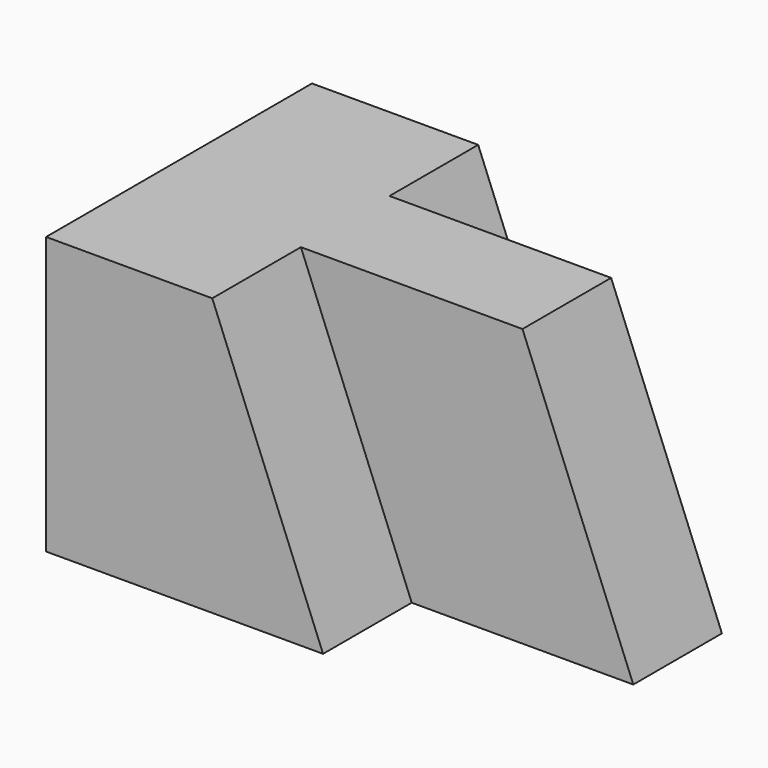
from build123d import *

# Parameters (mm, degrees)
F0_W     = 31.75
F0_H     = 31.75
F1_DEPTH = 38.1
F3_DEPTH = 12.7
F5_DEPTH = 12.7
F6_DEPTH = 25.4
F8_DEPTH = 25.401


with BuildPart() as f1:
    # F0 (on Front) → F1 (new body)
    with BuildSketch(Plane.XZ):
        with Locations((-27.6720197662, 15.875)):
            Rectangle(F0_W, F0_H)
    extrude(amount=F1_DEPTH)

    # F2 (on face) → F3 (cut)
    with BuildSketch(Plane.XZ.offset(38.1)):
        Polygon((-11.7970197662, 31.75), (-24.4970197662, 31.75), (-11.7970197662, 0), align=None)
    extrude(amount=-F3_DEPTH, mode=Mode.SUBTRACT)

    # F4 (on face) → F5 (cut)
    with BuildSketch(Plane(origin=(0, 0, 0), x_dir=(-1, 0, 0), z_dir=(0, 1, 0))):
        Polygon((11.7970197662, 0), (24.4970197662, 31.75), (11.7970197662, 31.75), align=None)
    extrude(amount=-F5_DEPTH, mode=Mode.SUBTRACT)

    # F6 (add): a face of the model
    f6_faces = [f1.faces().sort_by_distance(p)[0] for p in [
        (-11.7970197662, -19.05, 15.875),
    ]]
    extrude(f6_faces, amount=F6_DEPTH)

    # F7 (on face) → F8 (cut, through all)
    with BuildSketch(Plane.XZ.offset(25.4)):
        Polygon((13.6029802338, 31.75), (0.9029802338, 31.75), (13.6029802338, 0), align=None)
    extrude(amount=-F8_DEPTH, mode=Mode.SUBTRACT)


solid = f1.part
